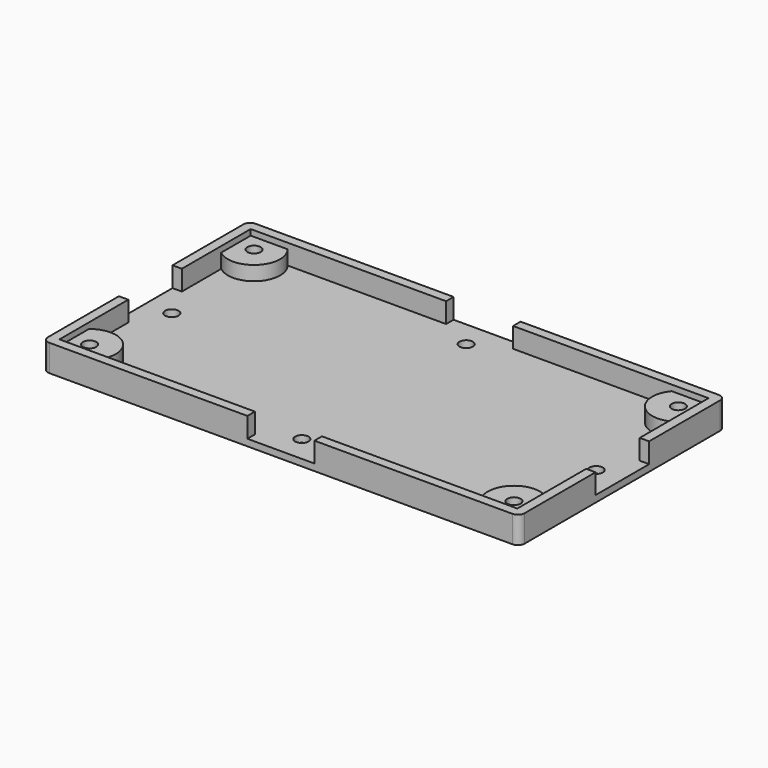
from build123d import *

# Parameters (mm, degrees)
F2_W     = 2.1
F2_H     = 15
F2_W_2   = 15
F2_H_2   = 2.1
F2_R     = 1.5
F2_W_3   = 43.75
F2_H_3   = 19.25
F3_DEPTH = 1.5
F4_DEPTH = 4.7
F5_DEPTH = 6
F6_R     = 1.5


with BuildPart() as f3:
    # F2 (on Top) → F3 (new body)
    with BuildSketch(Plane.XY):
        Polygon((-51.25, 18.5100111359), (-51.25, 26.75), (-43.0100111359, 26.75), (-7.5, 26.75), (-7.5, 28.85), (-53.35, 28.85), (-53.35, 7.5), (-51.25, 7.5), align=None)
        with Locations((-52.3, 0)):
            Rectangle(F2_W, F2_H)
        with Locations((52.3, 0)):
            Rectangle(F2_W, F2_H)
        Polygon((7.5, 28.85), (7.5, 26.75), (43.0100111359, 26.75), (51.25, 26.75), (51.25, 18.5100111359), (51.25, 7.5), (53.35, 7.5), (53.35, 28.85), align=None)
        Polygon((-51.25, -18.5100111359), (-51.25, -7.5), (-53.35, -7.5), (-53.35, -28.85), (-7.5, -28.85), (-7.5, -26.75), (-43.0100111359, -26.75), (-51.25, -26.75), align=None)
        with Locations((0, -27.8)):
            Rectangle(F2_W_2, F2_H_2)
        with Locations((0, 27.8)):
            Rectangle(F2_W_2, F2_H_2)
        Polygon((53.35, -7.5), (51.25, -7.5), (51.25, -18.5100111359), (51.25, -26.75), (43.0100111359, -26.75), (7.5, -26.75), (7.5, -28.85), (53.35, -28.85), align=None)
        with BuildLine():
            Line((-7.5, -7.5), (-51.25, -7.5))
            Line((-51.25, -7.5), (-51.25, -18.5100111359))
            ThreePointArc((-51.25, -18.5100111359), (-43.3634253301, -18.8634253301), (-43.0100111359, -26.75))
            Line((-43.0100111359, -26.75), (-7.5, -26.75))
            Line((-7.5, -26.75), (-7.5, -7.5))
        make_face()
        with BuildLine():
            Line((-43.0100111359, 26.75), (-51.25, 26.75))
            Line((-51.25, 26.75), (-51.25, 18.5100111359))
            ThreePointArc((-51.25, 18.5100111359), (-43.3634253301, 18.8634253301), (-43.0100111359, 26.75))
        make_face()
        with Locations((-47.5, 23)):
            Circle(F2_R, mode=Mode.SUBTRACT)
        with BuildLine():
            Line((51.25, 26.75), (43.0100111359, 26.75))
            ThreePointArc((43.0100111359, 26.75), (43.3634253301, 18.8634253301), (51.25, 18.5100111359))
            Line((51.25, 18.5100111359), (51.25, 26.75))
        make_face()
        with Locations((47.5, 23)):
            Circle(F2_R, mode=Mode.SUBTRACT)
        with BuildLine():
            Line((51.25, -26.75), (51.25, -18.5100111359))
            ThreePointArc((51.25, -18.5100111359), (43.3634253301, -18.8634253301), (43.0100111359, -26.75))
            Line((43.0100111359, -26.75), (51.25, -26.75))
        make_face()
        with Locations((47.5, -23)):
            Circle(F2_R, mode=Mode.SUBTRACT)
        with BuildLine():
            ThreePointArc((-43.0100111359, -26.75), (-43.3634253301, -18.8634253301), (-51.25, -18.5100111359))
            Line((-51.25, -18.5100111359), (-51.25, -26.75))
            Line((-51.25, -26.75), (-43.0100111359, -26.75))
        make_face()
        with Locations((-47.5, -23)):
            Circle(F2_R, mode=Mode.SUBTRACT)
        with Locations((-29.375, 0)):
            Rectangle(F2_W_3, F2_H)
        with Locations((-47.5, 0)):
            Circle(F2_R, mode=Mode.SUBTRACT)
        with BuildLine():
            Line((-7.5, 26.75), (-43.0100111359, 26.75))
            ThreePointArc((-43.0100111359, 26.75), (-43.3634253301, 18.8634253301), (-51.25, 18.5100111359))
            Line((-51.25, 18.5100111359), (-51.25, 7.5))
            Line((-51.25, 7.5), (-7.5, 7.5))
            Line((-7.5, 7.5), (-7.5, 26.75))
        make_face()
        with Locations((0, 17.125)):
            Rectangle(F2_W_2, F2_H_3)
        with Locations((0, 23)):
            Circle(F2_R, mode=Mode.SUBTRACT)
        with BuildLine():
            Line((43.0100111359, 26.75), (7.5, 26.75))
            Line((7.5, 26.75), (7.5, 7.5))
            Line((7.5, 7.5), (51.25, 7.5))
            Line((51.25, 7.5), (51.25, 18.5100111359))
            ThreePointArc((51.25, 18.5100111359), (43.3634253301, 18.8634253301), (43.0100111359, 26.75))
        make_face()
        with Locations((29.375, 0)):
            Rectangle(F2_W_3, F2_H)
        with Locations((47.5, 0)):
            Circle(F2_R, mode=Mode.SUBTRACT)
        with BuildLine():
            Line((51.25, -7.5), (7.5, -7.5))
            Line((7.5, -7.5), (7.5, -26.75))
            Line((7.5, -26.75), (43.0100111359, -26.75))
            ThreePointArc((43.0100111359, -26.75), (43.3634253301, -18.8634253301), (51.25, -18.5100111359))
            Line((51.25, -18.5100111359), (51.25, -7.5))
        make_face()
        with Locations((0, -17.125)):
            Rectangle(F2_W_2, F2_H_3)
        with Locations((0, -23)):
            Circle(F2_R, mode=Mode.SUBTRACT)
        Rectangle(F2_W_2, F2_H)
    extrude(amount=F3_DEPTH)

    # F2 (on Top) → F4 (join)
    with BuildSketch(Plane.XY):
        with BuildLine():
            ThreePointArc((-43.0100111359, -26.75), (-43.3634253301, -18.8634253301), (-51.25, -18.5100111359))
            Line((-51.25, -18.5100111359), (-51.25, -26.75))
            Line((-51.25, -26.75), (-43.0100111359, -26.75))
        make_face()
        with Locations((-47.5, -23)):
            Circle(F2_R, mode=Mode.SUBTRACT)
        with BuildLine():
            Line((51.25, -26.75), (51.25, -18.5100111359))
            ThreePointArc((51.25, -18.5100111359), (43.3634253301, -18.8634253301), (43.0100111359, -26.75))
            Line((43.0100111359, -26.75), (51.25, -26.75))
        make_face()
        with Locations((47.5, -23)):
            Circle(F2_R, mode=Mode.SUBTRACT)
        with BuildLine():
            Line((51.25, 26.75), (43.0100111359, 26.75))
            ThreePointArc((43.0100111359, 26.75), (43.3634253301, 18.8634253301), (51.25, 18.5100111359))
            Line((51.25, 18.5100111359), (51.25, 26.75))
        make_face()
        with Locations((47.5, 23)):
            Circle(F2_R, mode=Mode.SUBTRACT)
        with BuildLine():
            Line((-43.0100111359, 26.75), (-51.25, 26.75))
            Line((-51.25, 26.75), (-51.25, 18.5100111359))
            ThreePointArc((-51.25, 18.5100111359), (-43.3634253301, 18.8634253301), (-43.0100111359, 26.75))
        make_face()
        with Locations((-47.5, 23)):
            Circle(F2_R, mode=Mode.SUBTRACT)
    extrude(amount=F4_DEPTH)

    # F2 (on Top) → F5 (join)
    with BuildSketch(Plane.XY):
        Polygon((-51.25, -18.5100111359), (-51.25, -7.5), (-53.35, -7.5), (-53.35, -28.85), (-7.5, -28.85), (-7.5, -26.75), (-43.0100111359, -26.75), (-51.25, -26.75), align=None)
        Polygon((53.35, -7.5), (51.25, -7.5), (51.25, -18.5100111359), (51.25, -26.75), (43.0100111359, -26.75), (7.5, -26.75), (7.5, -28.85), (53.35, -28.85), align=None)
        Polygon((-51.25, 18.5100111359), (-51.25, 26.75), (-43.0100111359, 26.75), (-7.5, 26.75), (-7.5, 28.85), (-53.35, 28.85), (-53.35, 7.5), (-51.25, 7.5), align=None)
        Polygon((7.5, 28.85), (7.5, 26.75), (43.0100111359, 26.75), (51.25, 26.75), (51.25, 18.5100111359), (51.25, 7.5), (53.35, 7.5), (53.35, 28.85), align=None)
    extrude(amount=F5_DEPTH)

    # F6
    f6_edges = [f3.edges().sort_by_distance(p)[0] for p in [
        (53.35, -28.85, 3),
        (53.35, 28.85, 3),
        (-53.35, 28.85, 3),
        (-53.35, -28.85, 3),
    ]]
    fillet(f6_edges, radius=F6_R)


solid = f3.part
